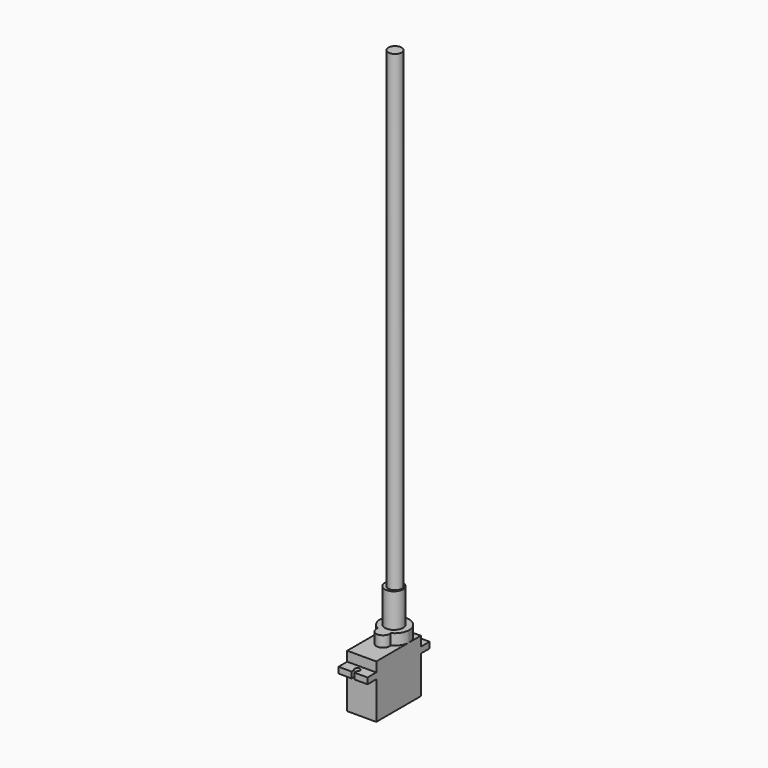
from build123d import *

# Parameters (mm, degrees)
F0_W      = 12
F0_H      = 23
F1_DEPTH  = 22
F3_W      = 12
F3_H      = 4.5
F4_DEPTH  = 2.5
F6_DEPTH  = 18.001
F8_DEPTH  = 4.5
F9_R      = 2.425
F10_DEPTH = 3
F11_R     = 3.742917
F12_DEPTH = 25
F13_R     = 2.770584
F14_DEPTH = 220


with BuildPart() as f1:
    # F0 (on Top) → F1 (new body)
    with BuildSketch(Plane.XY):
        with Locations((6, 11.5)):
            Rectangle(F0_W, F0_H)
    extrude(amount=F1_DEPTH)

    # F3 (on offset) → F4 (join)
    with BuildSketch(Plane.XY.offset(15.5)):
        with Locations((6, 25.25)):
            Rectangle(F3_W, F3_H)
        with Locations((6, -2.25)):
            Rectangle(F3_W, F3_H)
    extrude(amount=F4_DEPTH)

    # F5 (on face) → F6 (cut, through all)
    with BuildSketch(Plane.XY.offset(18)):
        with BuildLine():
            ThreePointArc((5.425, 26.158295), (5.481589, 24.30826), (7.075, 25.25))
            ThreePointArc((7.075, 25.25), (6.94174, 25.768411), (6.575, 26.158295))
            ThreePointArc((6.575, 26.158295), (6, 26.325), (5.425, 26.158295))
        make_face()
        with BuildLine():
            ThreePointArc((5.425, 26.158295), (6, 26.325), (6.575, 26.158295))
            Line((6.575, 26.158295), (6.575, 27.5))
            Line((6.575, 27.5), (5.425, 27.5))
            Line((5.425, 27.5), (5.425, 26.158295))
        make_face()
        with BuildLine():
            Line((5.425, -4.5), (6.575, -4.5))
            Line((6.575, -4.5), (6.575, -3.158295))
            ThreePointArc((6.575, -3.158295), (6, -3.325), (5.425, -3.158295))
            Line((5.425, -3.158295), (5.425, -4.5))
        make_face()
        with BuildLine():
            ThreePointArc((5.425, -3.158295), (6, -3.325), (6.575, -3.158295))
            ThreePointArc((6.575, -3.158295), (6.94174, -2.768411), (7.075, -2.25))
            ThreePointArc((7.075, -2.25), (5.481589, -1.30826), (5.425, -3.158295))
        make_face()
    extrude(amount=-F6_DEPTH, mode=Mode.SUBTRACT)

    # F7 (on face) → F8 (join)
    with BuildSketch(Plane.XY.offset(22)):
        with BuildLine():
            ThreePointArc((8.676815, 11.630208), (11.102004, 13.84254), (12, 17))
            ThreePointArc((12, 17), (2.84254, 22.102004), (3.323185, 11.630208))
            ThreePointArc((3.323185, 11.630208), (6, 11), (8.676815, 11.630208))
        make_face()
        with BuildLine():
            ThreePointArc((8.676815, 11.630208), (6, 11), (3.323185, 11.630208))
            ThreePointArc((3.323185, 11.630208), (6, 8.25), (8.676815, 11.630208))
        make_face()
    extrude(amount=F8_DEPTH)

    # F9 (on face) → F10 (join)
    with BuildSketch(Plane.XY.offset(26.5)):
        with Locations((6, 17)):
            Circle(F9_R)
    extrude(amount=F10_DEPTH)

    # F11 (on offset) → F12 (join)
    with BuildSketch(Plane.XY.offset(15.5)):
        with Locations((5.770345, 16.935842)):
            Circle(F11_R)
    extrude(amount=F12_DEPTH)

    # F13 (on offset) → F14 (join)
    with BuildSketch(Plane.XY.offset(15.5)):
        with Locations((6.120555, 17.043775)):
            Circle(F13_R)
    extrude(amount=F14_DEPTH)


solid = f1.part
